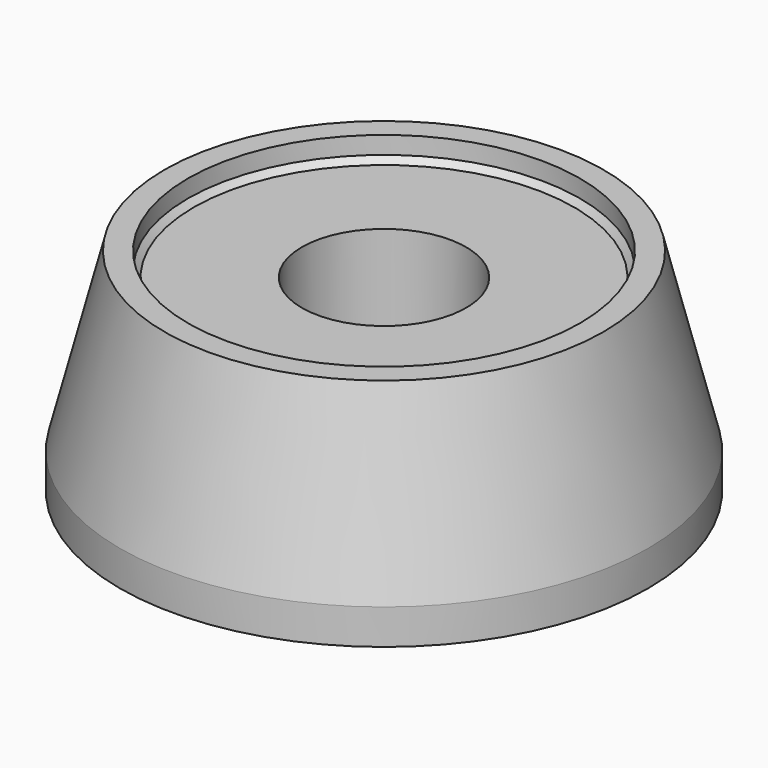
from build123d import *

# Parameters (mm, degrees)
F3_D     = 3
F3_DEPTH = 5
F3_TIP   = 0.9012909285


with BuildPart() as f1:
    # F0 (on Front) → F1 (revolve)
    with BuildSketch(Plane.XZ):
        Polygon((-22.5, 20.6200371981), (-7, 20.6200371981), (-7, 36.6200371981), (-16.2, 36.6200371981), (-16.7, 37.1200371981), (-16.7, 38.6200371981), (-18.7, 38.6200371981), (-22.5, 23.6200371981), align=None)
    revolve(axis=Axis((0, 0, 28.6200371981), (0, 0, 1)))

    # F3
    with Locations(Plane(origin=(0, 0, 20.6200371981), x_dir=(1, 0, 0), z_dir=(0, 0, -1))):
        with Locations((-14, 0), (14, 0)):
            Hole(F3_D / 2, depth=F3_DEPTH)
            with Locations((0, 0, -(F3_DEPTH + F3_TIP / 2))):  # 118° drill point
                Cone(0, F3_D / 2, F3_TIP, mode=Mode.SUBTRACT)


solid = f1.part
